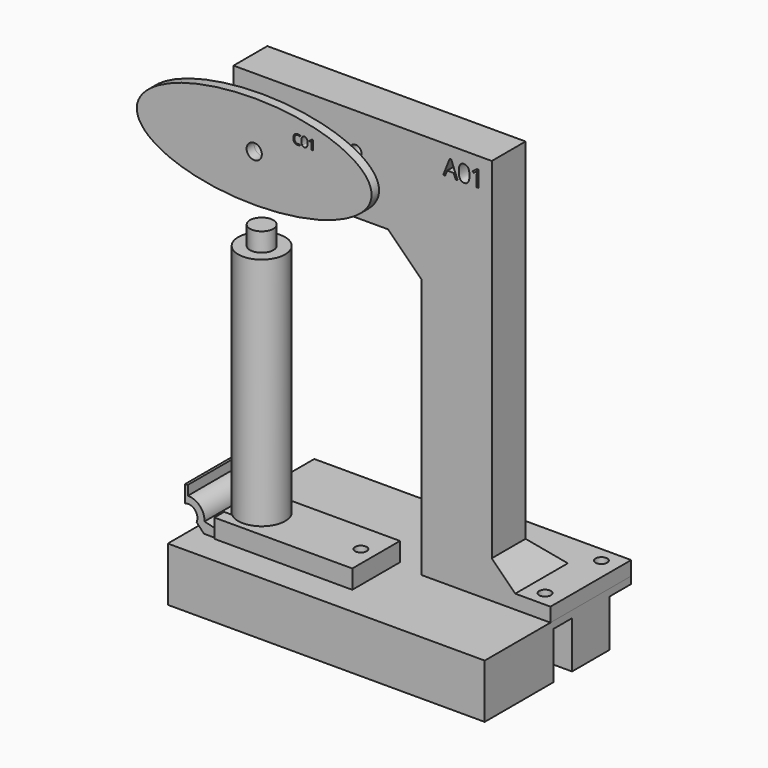
from build123d import *

# Parameters (mm, degrees)
F1_DEPTH  = 18
F2_R      = 2.5
F2_R_2    = 7.5
F3_DEPTH  = 18.0010001
F4_W      = 80
F4_H      = 30
F5_DEPTH  = 10
F6_R      = 2.5
F7_DEPTH  = 6
F8_SIZE   = 10
F10_R     = 3.25
F11_DEPTH = 4
F12_R     = 6.25
F12_R_2   = 3.25
F13_DEPTH = 9
F14_R     = 6.25
F14_R_2   = 1.5
F15_DEPTH = 6
F16_W     = 5
F16_H     = 108
F19_DEPTH = 12
F20_R     = 1.25
F20_R_2   = 2.5
F21_DEPTH = 3
F23_DEPTH = 20
F24_R     = 2.5
F25_DEPTH = 8


with BuildPart() as f1:
    # F0 (on Front) → F1 (new body)
    with BuildSketch(Plane.XZ):
        Polygon((0, 110.8578643763), (0, 0), (30, 0), (30, 165), (-80, 165), (-80, 125), (-14.1421356237, 125), align=None)
        Polygon((15.4613284809, 153.0319913823), (14.6296434245, 153.0319913823), (13.7692274298, 155.2291520858), (11.0004722695, 155.2291520858), (10.1506413574, 153.0319913823), (9.3371021568, 153.0319913823), (12.0680534509, 159.969756907), (12.7439865785, 159.969756907), align=None, mode=Mode.SUBTRACT)
        with BuildLine():
            add(Edge.make_bspline(
                [(19.9297454655, 159.1373157734), (20.5134371596, 158.2247304433), (20.5134371596, 156.4963376808)],
                knots=[0, 0, 0, 1, 1, 1], degree=2))
            add(Edge.make_bspline(
                [(20.5134371596, 156.4963376808), (20.5134371596, 154.704434423), (19.9486473986, 153.8205800312)],
                knots=[0, 0, 0, 1, 1, 1], degree=2))
            add(Edge.make_bspline(
                [(19.9486473986, 153.8205800312), (19.3838576376, 152.9367256395), (18.2210107133, 152.9367256395)],
                knots=[0, 0, 0, 1, 1, 1], degree=2))
            add(Edge.make_bspline(
                [(18.2210107133, 152.9367256395), (17.1065527378, 152.9367256395), (16.5251292757, 153.8417501963)],
                knots=[0, 0, 0, 1, 1, 1], degree=2))
            add(Edge.make_bspline(
                [(16.5251292757, 153.8417501963), (15.9437058136, 154.7467747531), (15.9437058136, 156.4963376808)],
                knots=[0, 0, 0, 1, 1, 1], degree=2))
            add(Edge.make_bspline(
                [(15.9437058136, 156.4963376808), (15.9437058136, 158.3003381757), (16.5062273426, 159.1751196396)],
                knots=[0, 0, 0, 1, 1, 1], degree=2))
            add(Edge.make_bspline(
                [(16.5062273426, 159.1751196396), (17.0687488716, 160.0499011034), (18.2210107133, 160.0499011034)],
                knots=[0, 0, 0, 1, 1, 1], degree=2))
            add(Edge.make_bspline(
                [(18.2210107133, 160.0499011034), (19.3460537714, 160.0499011034), (19.9297454655, 159.1373157734)],
                knots=[0, 0, 0, 1, 1, 1], degree=2))
        make_face(mode=Mode.SUBTRACT)
        with BuildLine():
            Line((24.3724558211, 159.9410259687), (24.3724558211, 153.0319913823))
            Line((24.3724558211, 153.0319913823), (23.6073055693, 153.0319913823))
            Line((23.6073055693, 153.0319913823), (23.6073055693, 157.955566916))
            add(Edge.make_bspline(
                [(23.6073055693, 157.955566916), (23.6073055693, 158.5710138577), (23.6451094355, 159.1184138403)],
                knots=[0, 0, 0, 1, 1, 1], degree=2))
            add(Edge.make_bspline(
                [(23.6451094355, 159.1184138403), (23.5468193833, 159.0186116335), (23.4235787795, 158.9104925762)],
                knots=[0, 0, 0, 1, 1, 1], degree=2))
            add(Edge.make_bspline(
                [(23.4235787795, 158.9104925762), (23.3003381757, 158.8023735188), (22.2992917988, 157.9888343183)],
                knots=[0, 0, 0, 1, 1, 1], degree=2))
            Line((22.2992917988, 157.9888343183), (21.8834492706, 158.5271613729))
            Line((21.8834492706, 158.5271613729), (23.71164424, 159.9410259687))
            Line((23.71164424, 159.9410259687), (24.3724558211, 159.9410259687))
        make_face(mode=Mode.SUBTRACT)
    extrude(amount=F1_DEPTH)

    # F2 (on face) → F3 (cut, through all)
    with BuildSketch(Plane.XZ.offset(18)):
        with Locations((-75, 149.75)):
            Circle(F2_R)
        with Locations((-75, 140.25)):
            Circle(F2_R)
        with Locations((-28, 140.25)):
            Circle(F2_R)
        with Locations((-28, 149.75)):
            Circle(F2_R)
        with Locations((-60, 145)):
            Circle(F2_R_2)
    extrude(amount=-F3_DEPTH, mode=Mode.SUBTRACT)

    # F4 (on face) → F5 (cut)
    with BuildSketch(Plane(origin=(0, 0, 0), x_dir=(-1, 0, 0), z_dir=(0, 1, 0))):
        with Locations((40, 145)):
            Rectangle(F4_W, F4_H)
    extrude(amount=-F5_DEPTH, mode=Mode.SUBTRACT)

    # F6 (on Top) → F7 (join)
    with BuildSketch(Plane.XY):
        Polygon((55, 25), (0, 25), (0, 0), (0, -18), (30, -18), (55, -18), align=None)
        with Locations((47.5, -11.5)):
            Circle(F6_R, mode=Mode.SUBTRACT)
        with Locations((7.5, 18.5)):
            Circle(F6_R, mode=Mode.SUBTRACT)
        with Locations((47.5, 18.5)):
            Circle(F6_R, mode=Mode.SUBTRACT)
    extrude(amount=F7_DEPTH)

    # F8
    f8_edges = [f1.edges().sort_by_distance(p)[0] for p in [
        (30, -9, 6),
        (15, 0, 6),
    ]]
    chamfer(f8_edges, length=F8_SIZE)


with BuildPart() as f11:
    # F10 (on offset) → F11 (new body)
    with BuildSketch(Plane.XZ.offset(28)):
        with BuildLine():
            add(Edge.make_bspline(
                [(-110, 145), (-110, 110.3589838486), (-35, 127.6794919243), (40, 145), (-35, 162.3205080757), (-110, 179.6410161514), (-110, 145)],
                knots=[0, 0, 0, 2.0943951024, 2.0943951024, 4.1887902048, 4.1887902048, 6.2831853072, 6.2831853072, 6.2831853072], degree=2, weights=[1, 0.5, 1, 0.5, 1, 0.5, 1]))
        make_face()
        with Locations((-60, 145)):
            Circle(F10_R, mode=Mode.SUBTRACT)
        with BuildLine():
            add(Edge.make_bspline(
                [(-40.5210034417, 156.906631814), (-40.9718289642, 157.1177119719), (-41.4226544866, 157.1177119719)],
                knots=[0, 0, 0, 1, 1, 1], degree=2))
            add(Edge.make_bspline(
                [(-41.4226544866, 157.1177119719), (-42.0767423833, 157.1177119719), (-42.4554705678, 156.6820876954)],
                knots=[0, 0, 0, 1, 1, 1], degree=2))
            add(Edge.make_bspline(
                [(-42.4554705678, 156.6820876954), (-42.8341987523, 156.2464634189), (-42.8341987523, 155.4890070499)],
                knots=[0, 0, 0, 1, 1, 1], degree=2))
            add(Edge.make_bspline(
                [(-42.8341987523, 155.4890070499), (-42.8341987523, 154.7107032578), (-42.4689345285, 154.2855026928)],
                knots=[0, 0, 0, 1, 1, 1], degree=2))
            add(Edge.make_bspline(
                [(-42.4689345285, 154.2855026928), (-42.1036703046, 153.8603021278), (-41.4278663423, 153.8603021278)],
                knots=[0, 0, 0, 1, 1, 1], degree=2))
            add(Edge.make_bspline(
                [(-41.4278663423, 153.8603021278), (-41.0126551675, 153.8603021278), (-40.4801772384, 154.0097086593)],
                knots=[0, 0, 0, 1, 1, 1], degree=2))
            Line((-40.4801772384, 154.0097086593), (-40.4801772384, 153.6057898387))
            add(Edge.make_bspline(
                [(-40.4801772384, 153.6057898387), (-40.8927824853, 153.4503028088), (-41.498226395, 153.4503028088)],
                knots=[0, 0, 0, 1, 1, 1], degree=2))
            add(Edge.make_bspline(
                [(-41.498226395, 153.4503028088), (-42.3746868037, 153.4503028088), (-42.8511372835, 153.982780738)],
                knots=[0, 0, 0, 1, 1, 1], degree=2))
            add(Edge.make_bspline(
                [(-42.8511372835, 153.982780738), (-43.3275877634, 154.5152586671), (-43.3275877634, 155.4950875482)],
                knots=[0, 0, 0, 1, 1, 1], degree=2))
            add(Edge.make_bspline(
                [(-43.3275877634, 155.4950875482), (-43.3275877634, 156.1083492415), (-43.0982661104, 156.5695984755)],
                knots=[0, 0, 0, 1, 1, 1], degree=2))
            add(Edge.make_bspline(
                [(-43.0982661104, 156.5695984755), (-42.8689444573, 157.0308477094), (-42.4359261087, 157.2805824641)],
                knots=[0, 0, 0, 1, 1, 1], degree=2))
            add(Edge.make_bspline(
                [(-42.4359261087, 157.2805824641), (-42.0029077601, 157.5303172188), (-41.4165739882, 157.5303172188)],
                knots=[0, 0, 0, 1, 1, 1], degree=2))
            add(Edge.make_bspline(
                [(-41.4165739882, 157.5303172188), (-40.7928885834, 157.5303172188), (-40.3255588511, 157.302732851)],
                knots=[0, 0, 0, 1, 1, 1], degree=2))
            Line((-40.3255588511, 157.302732851), (-40.5210034417, 156.906631814))
        make_face(mode=Mode.SUBTRACT)
        with BuildLine():
            add(Edge.make_bspline(
                [(-37.5928091526, 157.012171893), (-37.2575130993, 156.4879460687), (-37.2575130993, 155.4950875482)],
                knots=[0, 0, 0, 1, 1, 1], degree=2))
            add(Edge.make_bspline(
                [(-37.2575130993, 155.4950875482), (-37.2575130993, 154.4657460375), (-37.5819511197, 153.9580244231)],
                knots=[0, 0, 0, 1, 1, 1], degree=2))
            add(Edge.make_bspline(
                [(-37.5819511197, 153.9580244231), (-37.9063891402, 153.4503028088), (-38.5743753189, 153.4503028088)],
                knots=[0, 0, 0, 1, 1, 1], degree=2))
            add(Edge.make_bspline(
                [(-38.5743753189, 153.4503028088), (-39.2145649336, 153.4503028088), (-39.5485580229, 153.9701854199)],
                knots=[0, 0, 0, 1, 1, 1], degree=2))
            add(Edge.make_bspline(
                [(-39.5485580229, 153.9701854199), (-39.8825511123, 154.490068031), (-39.8825511123, 155.4950875482)],
                knots=[0, 0, 0, 1, 1, 1], degree=2))
            add(Edge.make_bspline(
                [(-39.8825511123, 155.4950875482), (-39.8825511123, 156.5313782), (-39.5594160558, 157.0338879586)],
                knots=[0, 0, 0, 1, 1, 1], degree=2))
            add(Edge.make_bspline(
                [(-39.5594160558, 157.0338879586), (-39.2362809992, 157.5363977172), (-38.5743753189, 157.5363977172)],
                knots=[0, 0, 0, 1, 1, 1], degree=2))
            add(Edge.make_bspline(
                [(-38.5743753189, 157.5363977172), (-37.9281052058, 157.5363977172), (-37.5928091526, 157.012171893)],
                knots=[0, 0, 0, 1, 1, 1], degree=2))
        make_face(mode=Mode.SUBTRACT)
        with BuildLine():
            Line((-35.04073712, 157.4738554482), (-35.04073712, 153.5050272942))
            Line((-35.04073712, 153.5050272942), (-35.4802702883, 153.5050272942))
            Line((-35.4802702883, 153.5050272942), (-35.4802702883, 156.3333276814))
            add(Edge.make_bspline(
                [(-35.4802702883, 156.3333276814), (-35.4802702883, 156.6868652299), (-35.4585542227, 157.0013138601)],
                knots=[0, 0, 0, 1, 1, 1], degree=2))
            add(Edge.make_bspline(
                [(-35.4585542227, 157.0013138601), (-35.5150159933, 156.9439834469), (-35.5858103673, 156.8818754992)],
                knots=[0, 0, 0, 1, 1, 1], degree=2))
            add(Edge.make_bspline(
                [(-35.5858103673, 156.8818754992), (-35.6566047412, 156.8197675515), (-36.231646159, 156.3524378192)],
                knots=[0, 0, 0, 1, 1, 1], degree=2))
            Line((-36.231646159, 156.3524378192), (-36.4705228809, 156.6616745937))
            Line((-36.4705228809, 156.6616745937), (-35.4203339472, 157.4738554482))
            Line((-35.4203339472, 157.4738554482), (-35.04073712, 157.4738554482))
        make_face(mode=Mode.SUBTRACT)
    extrude(amount=F11_DEPTH)

    # F12 (on face) → F13 (join)
    with BuildSketch(Plane(origin=(0, -28, 0), x_dir=(-1, 0, 0), z_dir=(0, 1, 0))):
        with Locations((60, 145)):
            Circle(F12_R)
        with Locations((60, 145)):
            Circle(F12_R_2, mode=Mode.SUBTRACT)
    extrude(amount=F13_DEPTH)

    # F14 (on face) → F15 (join)
    with BuildSketch(Plane(origin=(0, -19, 0), x_dir=(-1, 0, 0), z_dir=(0, 1, 0))):
        with Locations((60, 145)):
            Circle(F14_R)
        with Locations((60, 145)):
            Circle(F14_R_2, mode=Mode.SUBTRACT)
    extrude(amount=F15_DEPTH)


with BuildPart() as f17:
    # F16 (on offset) → F17 (revolve)
    with BuildSketch(Plane.XZ.offset(28)):
        Polygon((-55, 116), (-60, 116), (-60, 0), (-55, 0), (-55, 108), align=None)
        with Locations((-52.5, 54)):
            Rectangle(F16_W, F16_H)
    revolve(axis=Axis((-60, -28, 58), (0, 0, -1)))

    # F18 (on offset) → F19 (join, symmetric)
    with BuildSketch(Plane.XZ.offset(28)):
        with BuildLine():
            Line((-78.1348273158, 3.3289147541), (-75, 0))
            Line((-75, 0), (-20, 0))
            Line((-20, 0), (-20, 2.5))
            Line((-20, 2.5), (-65.7372210547, 2.5))
            Line((-65.7372210547, 2.5), (-74.7760873978, 4.6756102408))
            ThreePointArc((-74.7760873978, 4.6756102408), (-76.7486989791, 9.8798079144), (-81.8945376277, 12))
            Line((-81.8945376277, 12), (-81.8945376277, 16.0568683105))
            Line((-81.8945376277, 16.0568683105), (-83, 16.0568683105))
            Line((-83, 16.0568683105), (-83, 8.8068463986))
            ThreePointArc((-83, 8.8068463986), (-78.777765809, 7.657339225), (-78.1348273158, 3.3289147541))
        make_face()
    extrude(amount=F19_DEPTH, both=True)


with BuildPart() as f21:
    # F20 (on Top) → F21 (new body)
    with BuildSketch(Plane.XY):
        with BuildLine():
            Line((55, -53), (55, 25))
            Line((55, 25), (-80, 25))
            Line((-80, 25), (-80, -20.5))
            Line((-80, -20.5), (-60, -20.5))
            ThreePointArc((-60, -20.5), (-52.5, -28), (-60, -35.5))
            Line((-60, -35.5), (-80, -35.5))
            Line((-80, -35.5), (-80, -53))
            Line((-80, -53), (55, -53))
        make_face()
        with Locations((-17.75, -28)):
            Circle(F20_R, mode=Mode.SUBTRACT)
        with Locations((47.5, -11.5)):
            Circle(F20_R_2, mode=Mode.SUBTRACT)
        with Locations((7.5, 18.5)):
            Circle(F20_R_2, mode=Mode.SUBTRACT)
        with Locations((47.5, 18.5)):
            Circle(F20_R_2, mode=Mode.SUBTRACT)
    extrude(amount=-F21_DEPTH)

    # F22 (on face) → F23 (join)
    with BuildSketch(Plane(origin=(0, 0, -3), x_dir=(1, 0, 0), z_dir=(0, 0, -1))):
        with BuildLine():
            Line((-80, -25), (2.5, -25))
            Line((2.5, -25), (2.5, -13.5))
            Line((2.5, -13.5), (12.5, -13.5))
            Line((12.5, -13.5), (12.5, -25))
            Line((12.5, -25), (42.5, -25))
            Line((42.5, -25), (42.5, -13.5))
            Line((42.5, -13.5), (55, -13.5))
            Line((55, -13.5), (55, 6.5))
            Line((55, 6.5), (42.5, 6.5))
            Line((42.5, 6.5), (42.5, 16.5))
            Line((42.5, 16.5), (55, 16.5))
            Line((55, 16.5), (55, 53))
            Line((55, 53), (-80, 53))
            Line((-80, 53), (-80, 35.5))
            Line((-80, 35.5), (-60, 35.5))
            ThreePointArc((-60, 35.5), (-52.5, 28), (-60, 20.5))
            Line((-60, 20.5), (-80, 20.5))
            Line((-80, 20.5), (-80, -25))
        make_face()
        with BuildLine():
            Line((38.5, -9.5), (38.5, -21))
            Line((38.5, -21), (16.5, -21))
            Line((16.5, -21), (16.5, -9.5))
            Line((16.5, -9.5), (-1.5, -9.5))
            Line((-1.5, -9.5), (-1.5, -21))
            Line((-1.5, -21), (-76, -21))
            Line((-76, -21), (-76, 16.5))
            Line((-76, 16.5), (-60, 16.5))
            ThreePointArc((-60, 16.5), (-48.5, 28), (-60, 39.5))
            Line((-60, 39.5), (-76, 39.5))
            Line((-76, 39.5), (-76, 49))
            Line((-76, 49), (51, 49))
            Line((51, 49), (51, 20.5))
            Line((51, 20.5), (38.5, 20.5))
            Line((38.5, 20.5), (38.5, 2.5))
            Line((38.5, 2.5), (51, 2.5))
            Line((51, 2.5), (51, -9.5))
            Line((51, -9.5), (38.5, -9.5))
        make_face(mode=Mode.SUBTRACT)
    extrude(amount=F23_DEPTH)


with BuildPart() as f25:
    # F24 (on face) → F25 (new body)
    with BuildSketch(Plane.XY):
        with BuildLine():
            Line((-60, -35.5), (-70, -35.5))
            Line((-70, -35.5), (-70, -40.7))
            Line((-70, -40.7), (-11.25, -40.7))
            Line((-11.25, -40.7), (-11.25, -15.3))
            Line((-11.25, -15.3), (-70, -15.3))
            Line((-70, -15.3), (-70, -20.5))
            Line((-70, -20.5), (-60, -20.5))
            ThreePointArc((-60, -20.5), (-52.5, -28), (-60, -35.5))
        make_face()
        with Locations((-17.75, -28)):
            Circle(F24_R, mode=Mode.SUBTRACT)
    extrude(amount=F25_DEPTH)


solid = Compound([f1.part, f11.part, f17.part, f21.part, f25.part])
